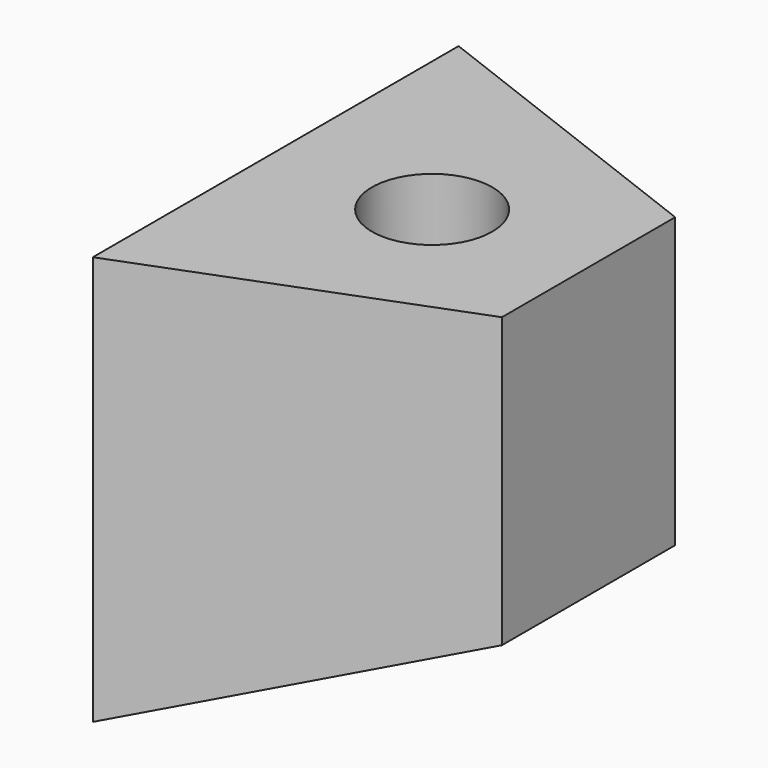
from build123d import *

# Parameters (mm, degrees)
F1_DEPTH = 9.5
F3_DEPTH = 25
F4_R     = 2.5
F5_DEPTH = 7
F6_DEPTH = 25


with BuildPart() as f1:
    # F0 (on Front) → F1 (new body, symmetric)
    with BuildSketch(Plane.XZ):
        Polygon((0, 17), (0, 0), (13, 5), (13, 17), align=None)
    extrude(amount=F1_DEPTH, both=True)

    # F2 (on face) → F3 (cut)
    with BuildSketch(Plane.XY.offset(17)):
        Polygon((13, 9.5), (0, 9.5), (13, 4.5), align=None)
        Polygon((13, -9.5), (13, -4.5), (0, -9.5), align=None)
    extrude(amount=-F3_DEPTH, mode=Mode.SUBTRACT)

    # F4 (on Top) → F5 (cut)
    with BuildSketch(Plane.XY):
        with BuildLine():
            ThreePointArc((12, 1.5), (10.828427, 4.328427), (8, 5.5))
            Line((8, 5.5), (5, 5.5))
            ThreePointArc((5, 5.5), (2.171573, 4.328427), (1, 1.5))
            Line((1, 1.5), (1, -1.5))
            ThreePointArc((1, -1.5), (2.171573, -4.328427), (5, -5.5))
            Line((5, -5.5), (8, -5.5))
            ThreePointArc((8, -5.5), (10.828427, -4.328427), (12, -1.5))
            Line((12, -1.5), (12, 1.5))
        make_face()
        with Locations((6.5, 0)):
            Circle(F4_R, mode=Mode.SUBTRACT)
    extrude(amount=F5_DEPTH, mode=Mode.SUBTRACT)

    # F4 (on Top) → F6 (cut)
    with BuildSketch(Plane.XY):
        with Locations((6.5, 0)):
            Circle(F4_R)
    extrude(amount=F6_DEPTH, mode=Mode.SUBTRACT)


solid = f1.part
